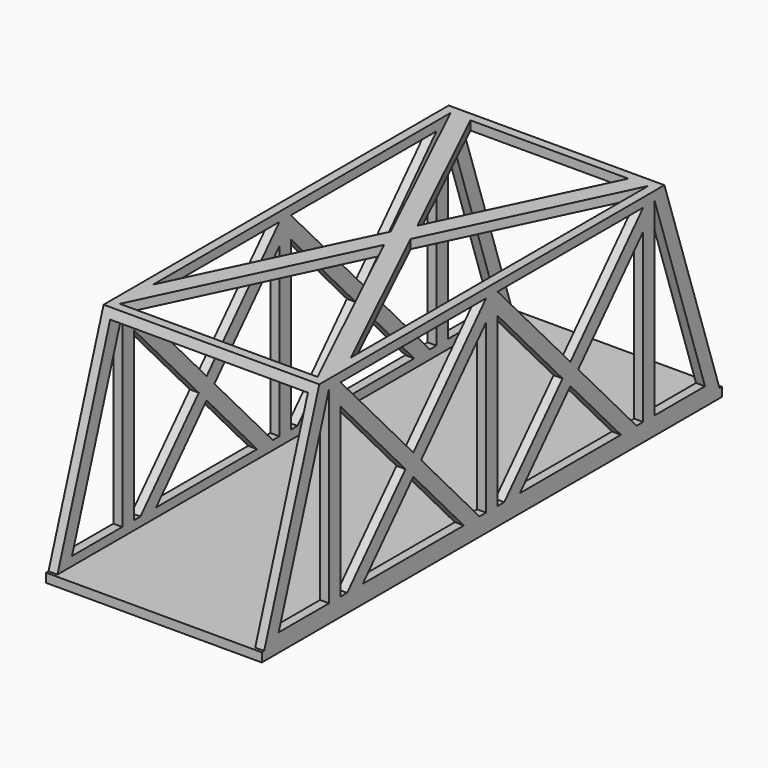
from build123d import *

# Parameters (mm, degrees)
F1_DEPTH  = 38.1
F2_W      = 69.85
F2_H      = 69.85
F3_DEPTH  = 127
F5_DEPTH  = 76.2
F7_DEPTH  = 25.4
F8_W      = 3.175
F8_H      = 190.3737529909
F9_DEPTH  = 3.175
F10_W     = 4.2661567543
F10_H     = 3.175
F11_DEPTH = 76.2


with BuildPart() as f1:
    # F0 (on Right) → F1 (new body, symmetric)
    with BuildSketch(Plane.YZ):
        Polygon((-76.2, 38.1), (-101.6, -38.1), (101.6, -38.1), (76.2, 38.1), align=None)
    extrude(amount=F1_DEPTH, both=True)

    # F2 (on Front) → F3 (cut, symmetric)
    with BuildSketch(Plane.XZ):
        Rectangle(F2_W, F2_H)
    extrude(amount=F3_DEPTH, both=True, mode=Mode.SUBTRACT)

    # F4 (on face) → F5 (cut)
    with BuildSketch(Plane(origin=(-38.1, 0, 0), x_dir=(0, -1, 0), z_dir=(-1, 0, 0))):
        Polygon((-71.9035431621, 34.925), (-95.1868764954, -34.925), (-71.9035431621, -34.925), align=None)
        Polygon((-66.8235431621, 27.423295483), (-66.8235431621, -34.925), (-38.1337124981, -3.7508522585), align=None)
        Polygon((-2.54, 34.925), (-66.8235431621, 34.925), (-34.6817715811, 0), align=None)
        Polygon((-2.54, -34.925), (-2.54, 27.423295483), (-31.229830664, -3.7508522585), align=None)
        Polygon((-34.6817715811, -7.501704517), (-59.9196613281, -34.925), (-9.443881834, -34.925), align=None)
        Polygon((31.229830664, -3.7508522585), (2.54, 27.423295483), (2.54, -34.925), align=None)
        Polygon((66.8235431621, 34.925), (2.54, 34.925), (34.6817715811, 0), align=None)
        Polygon((66.8235431621, -34.925), (66.8235431621, 27.423295483), (38.1337124981, -3.7508522585), align=None)
        Polygon((34.6817715811, -7.501704517), (9.443881834, -34.925), (59.9196613281, -34.925), align=None)
        Polygon((95.1868764954, -34.925), (71.9035431621, 34.925), (71.9035431621, -34.925), align=None)
    extrude(amount=-F5_DEPTH, mode=Mode.SUBTRACT)

    # F6 (on face) → F7 (cut)
    with BuildSketch(Plane.XY.offset(38.1)):
        Polygon((-34.925, 73.025), (-34.925, -58.3073754949), (-3.5194319469, 7.3588122526), align=None)
        Polygon((-34.925, -73.025), (34.925, -73.025), (0, 0), align=None)
        Polygon((3.5194319469, 7.3588122526), (34.925, -58.3073754949), (34.925, 73.025), align=None)
        Polygon((0, 14.7176245051), (27.8861361062, 73.025), (-27.8861361062, 73.025), align=None)
    extrude(amount=-F7_DEPTH, mode=Mode.SUBTRACT)

    # F8 (on face) → F9 (join)
    with BuildSketch(Plane.XY.offset(-34.925)):
        with Locations((-36.5125, 0)):
            Rectangle(F8_W, F8_H)
        with Locations((36.5125, 0)):
            Rectangle(F8_W, F8_H)
    extrude(amount=F9_DEPTH)

    # F10 (on face) → F11 (join)
    with BuildSketch(Plane.YZ.offset(38.1)):
        with Locations((-99.4669216229, -36.5125)):
            Rectangle(F10_W, F10_H)
        with Locations((99.4669216229, -36.5125)):
            Rectangle(F10_W, F10_H)
    extrude(amount=-F11_DEPTH)


solid = f1.part
